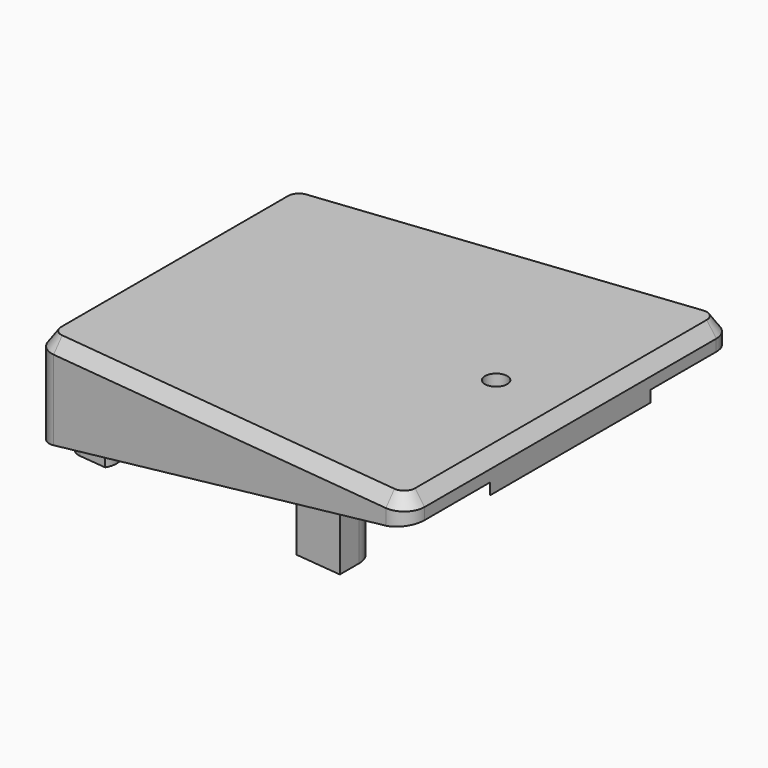
from build123d import *

# Parameters (mm, degrees)
PAD008_DEPTH         = 14
PAD008_DEPTH_BACK    = 5
POCKET006_DEPTH      = 30.001
POCKET006_DEPTH_BACK = 30.001
POCKET032_DEPTH      = 13.2908094213
PAD015_DEPTH         = 16
SKETCH026_W          = 0.7
SKETCH026_H          = 12
SKETCH027_W          = 0.7
SKETCH027_H          = 14
POCKET033_DEPTH      = 14.501
SKETCH037_R          = 1.65
POCKET034_DEPTH      = 14.001
PAD016_DEPTH         = 3
SKETCH036_W          = 6
SKETCH036_H          = 40
POCKET035_DEPTH      = 14.501
POCKET036_DEPTH      = 0.701
PAD017_DEPTH         = 10


with BuildPart() as part:
    # Sketch020 → Pad008 (new body, two sides)
    with BuildSketch(Plane.XY) as pad008_sk:
        with BuildLine():
            Line((26.6687054218, 29.981651204), (-27.3312945782, 23.981651204))
            ThreePointArc((-27.3312945782, 23.981651204), (-29.2353840537, 23.0007643871), (-30, 21))
            Line((-30, 21), (-30, -21))
            ThreePointArc((-30, -21), (-29.2353840537, -23.0007643871), (-27.3312945782, -23.981651204))
            Line((-27.3312945782, -23.981651204), (26.6687054218, -29.981651204))
            ThreePointArc((26.6687054218, -29.981651204), (29.0007643871, -29.2353840537), (30, -27))
            Line((30, -27), (30, 27))
            ThreePointArc((30, 27), (29.0007643871, 29.2353840537), (26.6687054218, 29.981651204))
        make_face()
    extrude(amount=PAD008_DEPTH)
    extrude(pad008_sk.sketch, amount=-PAD008_DEPTH_BACK)

    # Sketch021 → Pocket006 (cut, two sides)
    with BuildSketch(Plane.XZ) as pocket006_sk:
        Polygon((31, -6), (-31, -6), (-31, -0.466136402), (31, 10.466136402), align=None)
    extrude(amount=-POCKET006_DEPTH, mode=Mode.SUBTRACT)
    extrude(pocket006_sk.sketch, amount=POCKET006_DEPTH_BACK, mode=Mode.SUBTRACT)

    # Sketch040 → Pocket032 (cut, through all)
    with BuildSketch(Plane.XY.offset(13)):
        with BuildLine():
            Line((-25.2090569265, 20.276010124), (23.7909430735, 25.426117652))
            ThreePointArc((26, 23.4370738613), (25.3382612127, 24.9233635123), (23.7909430735, 25.426117652))
            Line((26, 23.4370738613), (26, 6.8045027298))
            Line((26, 6.8045027298), (17.6319194267, 3.7587704831))
            ThreePointArc((17.6319194267, 3.7587704831), (15, 0), (17.6319194267, -3.7587704831))
            Line((26, -6.8045027298), (17.6319194267, -3.7587704831))
            Line((26, -6.8045027298), (26, -23.4370738613))
            ThreePointArc((23.7909430735, -25.426117652), (25.3382612127, -24.9233635123), (26, -23.4370738613))
            Line((23.7909430735, -25.426117652), (-25.2090569265, -20.276010124))
            ThreePointArc((-27, -18.2869663333), (-26.486289651, -19.625227546), (-25.2090569265, -20.276010124))
            Line((-27, -18.2869663333), (-27, 18.2869663333))
            ThreePointArc((-25.2090569265, 20.276010124), (-26.486289651, 19.625227546), (-27, 18.2869663333))
        make_face()
    extrude(amount=-POCKET032_DEPTH, mode=Mode.SUBTRACT)

    # Sketch063 → Pad015 (join)
    with BuildSketch(Plane.XY.offset(-2.5)):
        with BuildLine():
            Line((15.5, 21), (15.5, 24.5547044207))
            Line((15.5, 24.5547044207), (8.5, 23.8189747738))
            Line((8.5, 21), (8.5, 23.8189747738))
            ThreePointArc((8.5, 21), (12, 17.5), (15.5, 21))
        make_face()
        with BuildLine():
            Line((8.5, -23.8189747738), (15.5, -24.5547044207))
            Line((15.5, -24.5547044207), (15.5, -21))
            ThreePointArc((15.5, -21), (12, -17.5), (8.5, -21))
            Line((8.5, -23.8189747738), (8.5, -21))
        make_face()
        with BuildLine():
            ThreePointArc((-25, 16), (-22.3826908751, 17.5338168788), (-22.4416970255, 20.5668713701))
            Line((-22.4416970255, 20.5668713701), (-26.5090569265, 20.1393746182))
            ThreePointArc((-26.5090569265, 20.1393746182), (-27.786289651, 19.4885920402), (-28.3, 18.1503308274))
            Line((-28.3, 16), (-28.3, 18.1503308274))
            Line((-25, 16), (-28.3, 16))
        make_face()
        with BuildLine():
            ThreePointArc((-22.4416970255, -20.5668713701), (-22.3826908751, -17.5338168788), (-25, -16))
            Line((-28.3, -16), (-25, -16))
            Line((-28.3, -18.1503308274), (-28.3, -16))
            ThreePointArc((-28.3, -18.1503308274), (-27.786289651, -19.4885920402), (-26.5090569265, -20.1393746182))
            Line((-22.4416970255, -20.5668713701), (-26.5090569265, -20.1393746182))
        make_face()
    extrude(amount=PAD015_DEPTH)

    # Sketch026 → Groove (revolve, cut)
    with BuildSketch(Plane.XZ.offset(21)):
        with Locations((12.35, 2.8)):
            Rectangle(SKETCH026_W, SKETCH026_H)
    groove = revolve(axis=Axis((12, -21, 8.8), (0, 0, -1)), mode=Mode.SUBTRACT)

    # Sketch027 → Groove004 (revolve, cut)
    with BuildSketch(Plane.XZ.offset(19)):
        with Locations((-25.35, 3.5)):
            Rectangle(SKETCH027_W, SKETCH027_H)
    groove004 = revolve(axis=Axis((-25, -19, -17.5), (0, 0, 1)), mode=Mode.SUBTRACT)

    # Mirrored013: Groove, Groove004 across XZ
    add(groove.mirror(Plane.XZ), mode=Mode.SUBTRACT)
    add(groove004.mirror(Plane.XZ), mode=Mode.SUBTRACT)

    # Sketch057 → Pocket033 (cut, through all)
    with BuildSketch(Plane.XY.offset(12)):
        with BuildLine():
            Line((21.9, -1.6743157806), (21.9, 1.6743157806))
            Line((21.9, 1.6743157806), (15.9010990338, 5.1377828683))
            ThreePointArc((15.9010990338, 5.1377828683), (13, 0), (15.9010990338, -5.1377828683))
            Line((15.9010990338, -5.1377828683), (21.9, -1.6743157806))
        make_face()
    extrude(amount=-POCKET033_DEPTH, mode=Mode.SUBTRACT)

    # Sketch037 → Pocket034 (cut, through all)
    with BuildSketch(Plane.XY):
        with Locations((19, 0)):
            Circle(SKETCH037_R)
    extrude(amount=POCKET034_DEPTH, mode=Mode.SUBTRACT)

    # Sketch039 → Pad016 (join)
    with BuildSketch(Plane.XY.offset(8.6)):
        Polygon((28.9, -11.85), (28.9, 11.85), (30, 14.8722251614), (30, -14.8722251614), align=None)
    extrude(amount=PAD016_DEPTH)

    # SubtractivePipe: sweep along a path in Sketch020
    with BuildLine(Plane.XY) as subtractivepipe_path:
        Line((26.6687054218, 29.981651204), (-27.3312945782, 23.981651204))
        ThreePointArc((-27.3312945782, 23.981651204), (-29.2353840537, 23.0007643871), (-30, 21))
        Line((-30, 21), (-30, -21))
        ThreePointArc((-30, -21), (-29.2353840537, -23.0007643871), (-27.3312945782, -23.981651204))
        Line((-27.3312945782, -23.981651204), (26.6687054218, -29.981651204))
        ThreePointArc((26.6687054218, -29.981651204), (29.0007643871, -29.2353840537), (30, -27))
        Line((30, -27), (30, 27))
        ThreePointArc((30, 27), (29.0007643871, 29.2353840537), (26.6687054218, 29.981651204))
    # Sketch035 → SubtractivePipe (sweep, cut)
    with BuildSketch(Plane.XZ):
        Polygon((28.5995849236, 14), (30, 14), (30, 12), align=None)
    sweep(path=subtractivepipe_path.line, mode=Mode.SUBTRACT)

    # Sketch036 → Pocket035 (cut, through all)
    with BuildSketch(Plane.XY.offset(12)):
        with Locations((26, 0)):
            Rectangle(SKETCH036_W, SKETCH036_H)
    extrude(amount=-POCKET035_DEPTH, mode=Mode.SUBTRACT)

    # Sketch054 → Pocket036 (cut, through all)
    with BuildSketch(Plane.YZ.offset(-29.3)):
        with BuildLine():
            Line((-4, 2), (4, 2))
            ThreePointArc((7, -1), (6.1213203436, 1.1213203436), (4, 2))
            Line((7, -1), (7, -3))
            ThreePointArc((4, -6), (6.1213203436, -5.1213203436), (7, -3))
            Line((4, -6), (-4, -6))
            ThreePointArc((-7, -3), (-6.1213203436, -5.1213203436), (-4, -6))
            Line((-7, -3), (-7, -1))
            ThreePointArc((-4, 2), (-6.1213203436, 1.1213203436), (-7, -1))
        make_face()
    extrude(amount=-POCKET036_DEPTH, mode=Mode.SUBTRACT)

    # Sketch064 → Pad017 (join)
    with BuildSketch(Plane.XY.offset(3.3)):
        with BuildLine():
            Line((1.4095389312, 20.486969785), (2.4646015442, 23.3857304905))
            Line((2.4646015442, 23.3857304905), (-2.2829835631, 22.8867391884))
            Line((-1.4095389312, 20.486969785), (-2.2829835631, 22.8867391884))
            ThreePointArc((-1.4095389312, 20.486969785), (0, 19.5), (1.4095389312, 20.486969785))
        make_face()
    pad017 = extrude(amount=PAD017_DEPTH)

    # Mirrored014: Pad017 across XZ
    add(pad017.mirror(Plane.XZ))

    # SubtractivePipe002: sweep along a path in Sketch023
    with BuildLine(Plane(origin=(0, 0, 4), x_dir=(0.984807753, 0, 0.1736481777), z_dir=(-0.1736481777, 0, 0.984807753))) as subtractivepipe002_path:
        Line((-26.343872324, 21.9802268076), (25.656127676, 27.9802268076))
        ThreePointArc((25.656127676, 27.9802268076), (27.996043966, 27.2396000728), (29, 25))
        Line((29, 25), (29, -25))
        ThreePointArc((29, -25), (27.996043966, -27.2396000728), (25.656127676, -27.9802268076))
        Line((25.656127676, -27.9802268076), (-26.343872324, -21.9802268076))
        ThreePointArc((-26.343872324, -21.9802268076), (-28.2396000728, -20.996043966), (-29, -19))
        Line((-29, -19), (-29, 19))
        ThreePointArc((-29, 19), (-28.2396000728, 20.996043966), (-26.343872324, 21.9802268076))
    # Sketch025 → SubtractivePipe002 (sweep, cut)
    with BuildSketch(Plane.XZ):
        Polygon((28.0823303903, 11.7415342162), (27.5746170843, 8.8621489747), (29.5442325904, 9.20944533), align=None)
    sweep(path=subtractivepipe002_path.line, mode=Mode.SUBTRACT)


solid = part.part
